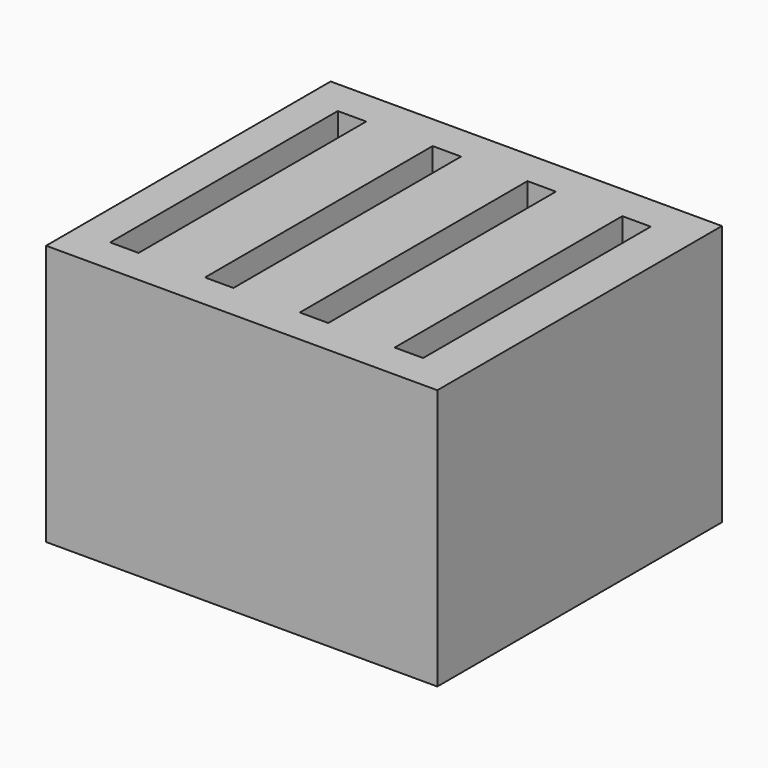
from build123d import *

# Parameters (mm, degrees)
BOX003_W     = 2.4
BOX003_H     = 24
BOX003_DEPTH = 19
BOX002_W     = 2.4
BOX002_H     = 24
BOX002_DEPTH = 19
BOX001_W     = 2.4
BOX001_H     = 24
BOX001_DEPTH = 19
BOX004_W     = 2.4
BOX004_H     = 24
BOX004_DEPTH = 19
BOX_W        = 33
BOX_H        = 30
BOX_DEPTH    = 22


with BuildPart() as cubo003:
    # Box003 → Box003 (new body)
    with BuildSketch(Plane(origin=(19, 3, 3), x_dir=(1, 0, 0), z_dir=(0, 0, 1))):
        with Locations((1.2, 12)):
            Rectangle(BOX003_W, BOX003_H)
    extrude(amount=BOX003_DEPTH)


with BuildPart() as cubo002:
    # Box002 → Box002 (new body)
    with BuildSketch(Plane(origin=(11, 3, 3), x_dir=(1, 0, 0), z_dir=(0, 0, 1))):
        with Locations((1.2, 12)):
            Rectangle(BOX002_W, BOX002_H)
    extrude(amount=BOX002_DEPTH)


with BuildPart() as cubo001:
    # Box001 → Box001 (new body)
    with BuildSketch(Plane(origin=(3, 3, 3), x_dir=(1, 0, 0), z_dir=(0, 0, 1))):
        with Locations((1.2, 12)):
            Rectangle(BOX001_W, BOX001_H)
    extrude(amount=BOX001_DEPTH)


with BuildPart() as fusion:
    # Box004 → Box004 (new body)
    with BuildSketch(Plane(origin=(27, 3, 3), x_dir=(1, 0, 0), z_dir=(0, 0, 1))):
        with Locations((1.2, 12)):
            Rectangle(BOX004_W, BOX004_H)
    extrude(amount=BOX004_DEPTH)

    # Fusion: union Cubo003, Cubo002, Cubo001
    add(cubo003.part)
    add(cubo002.part)
    add(cubo001.part)


with BuildPart() as cut:
    # Box → Box (new body)
    with BuildSketch(Plane.XY):
        with Locations((16.5, 15)):
            Rectangle(BOX_W, BOX_H)
    extrude(amount=BOX_DEPTH)

    # Cut: cut Fusion
    add(fusion.part, mode=Mode.SUBTRACT)


solid = cut.part
